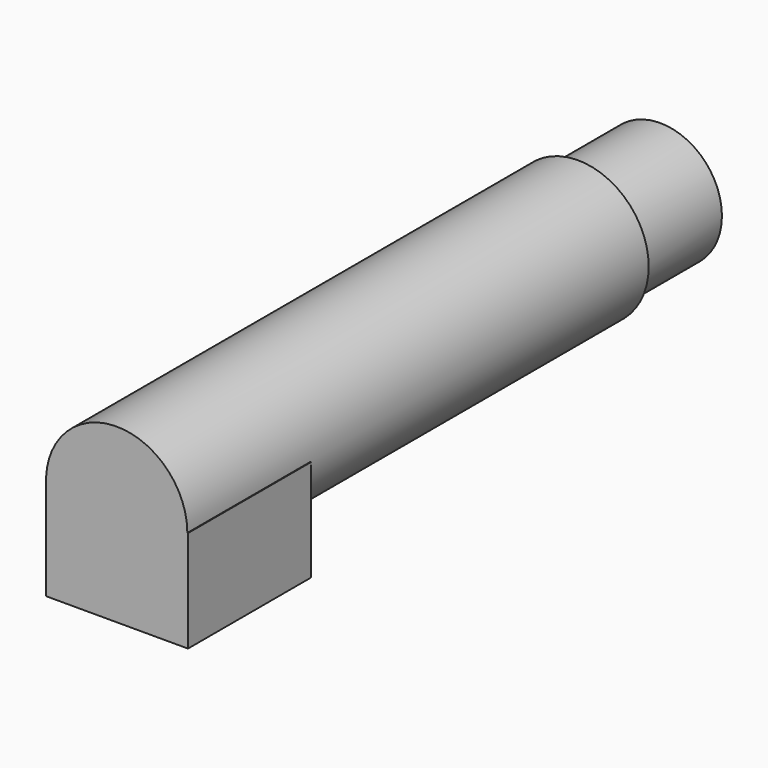
from build123d import *

# Parameters (mm, degrees)
F0_R     = 15.904078
F1_DEPTH = 129.794
F2_W     = 31.898258
F2_H     = 22.879753
F3_DEPTH = 34.544
F4_R     = 13.890784
F5_DEPTH = 152.908


with BuildPart() as f1:
    # F0 (on Front) → F1 (new body)
    with BuildSketch(Plane.XZ):
        Circle(F0_R)
    extrude(amount=-F1_DEPTH)

    # F2 (on Front) → F3 (join)
    with BuildSketch(Plane.XZ):
        with Locations((0.097296, -11.439876)):
            Rectangle(F2_W, F2_H)
    extrude(amount=-F3_DEPTH)

    # F4 (on Front) → F5 (join)
    with BuildSketch(Plane.XZ):
        Circle(F4_R)
    extrude(amount=-F5_DEPTH)


solid = f1.part
